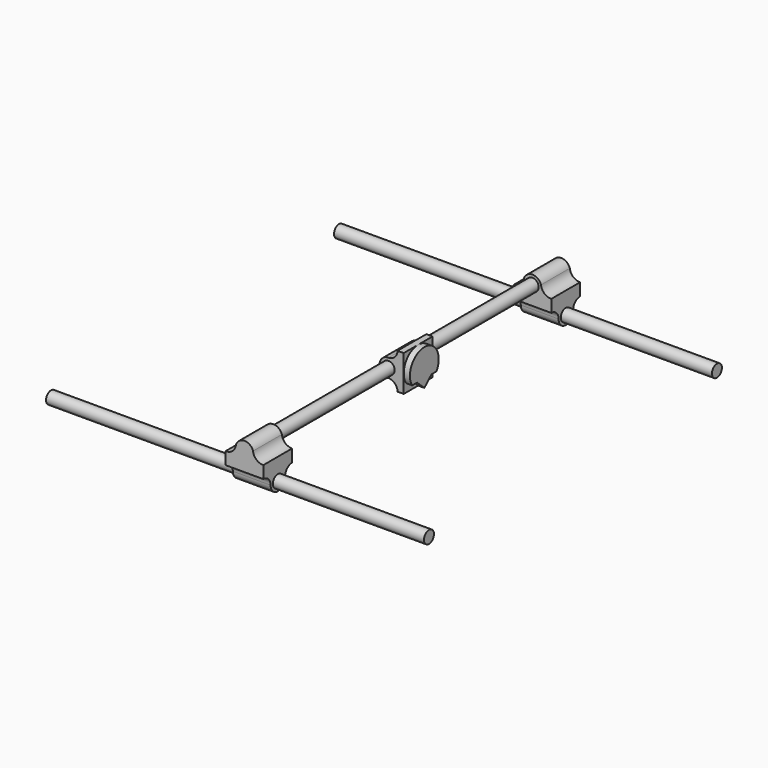
from build123d import *

# Parameters (mm, degrees)
SKETCH_R     = 6.9
PAD_DEPTH    = 210
SKETCH013_R  = 6.9
PAD003_DEPTH = 210
SKETCH017_R  = 6.9
PAD007_DEPTH = 20
PAD008_DEPTH = 6.9
SKETCH011_R  = 6.9
PAD001_DEPTH = 42
SKETCH012_R  = 6.9
PAD002_DEPTH = 42
SKETCH014_R  = 6.9
PAD004_DEPTH = 20
SKETCH015_R  = 6.9
PAD005_DEPTH = 20
SKETCH016_R  = 6.9
PAD006_DEPTH = 440


with BuildPart() as x_axis_rail1:
    # Sketch → Pad (new body, symmetric)
    with BuildSketch(Plane.YZ):
        Circle(SKETCH_R)
    extrude(amount=PAD_DEPTH, both=True)


with BuildPart() as x_axis_rail2:
    # Sketch013 → Pad003 (new body, symmetric)
    with BuildSketch(Plane(origin=(0, 400, 0), x_dir=(0, 1, 0), z_dir=(1, 0, 0))):
        Circle(SKETCH013_R)
    extrude(amount=PAD003_DEPTH, both=True)


with BuildPart() as y_axis_sled:
    # Sketch017 → Pad007 (new body, symmetric)
    with BuildSketch(Plane.XZ.offset(-200)):
        with BuildLine():
            ThreePointArc((21, 40.7), (11, 30.7), (21, 20.7))
            ThreePointArc((31, 10.7), (28.071068, 17.771068), (21, 20.7))
            Line((37.9, 10.7), (31, 10.7))
            Line((37.9, 50.7), (37.9, 10.7))
            Line((31, 50.7), (37.9, 50.7))
            ThreePointArc((21, 40.7), (28.071068, 43.628932), (31, 50.7))
        make_face()
        with Locations((21, 30.7)):
            Circle(SKETCH017_R, mode=Mode.SUBTRACT)
    extrude(amount=PAD007_DEPTH, both=True)


with BuildPart() as a_axis:
    # Sketch018 → Pad008 (new body)
    with BuildSketch(Plane.YZ.offset(37.9)):
        with BuildLine():
            ThreePointArc((216.953369, 20.01), (200.05, 50.7), (183.146631, 20.01))
            Line((183.146631, 20.01), (190.05, 20.01))
            Line((190.05, 20.01), (200.05, 10.7))
            Line((210.05, 20.01), (200.05, 10.7))
            Line((216.953369, 20.01), (210.05, 20.01))
        make_face()
    extrude(amount=PAD008_DEPTH)


with BuildPart() as x_axis_sled1:
    # Sketch011 → Pad001 (new body)
    with BuildSketch(Plane.YZ):
        with BuildLine():
            Line((-20, 16.9), (20, 16.9))
            Line((20, 16.9), (20, 10))
            ThreePointArc((20, 10), (12.928932, 7.071068), (10, 0))
            ThreePointArc((-10, 0), (0, -9.999999), (10, 0))
            ThreePointArc((-10, 0), (-12.928932, 7.071068), (-20, 10))
            Line((-20, 10), (-20, 16.9))
        make_face()
        Circle(SKETCH011_R, mode=Mode.SUBTRACT)
    extrude(amount=PAD001_DEPTH)


with BuildPart() as x_axis_sled2:
    # Sketch012 → Pad002 (new body)
    with BuildSketch(Plane(origin=(0, 400, 0), x_dir=(0, 1, 0), z_dir=(1, 0, 0))):
        with BuildLine():
            Line((-20, 16.9), (20, 16.9))
            Line((20, 16.9), (20, 10))
            ThreePointArc((20, 10), (12.928932, 7.071068), (10, 0))
            ThreePointArc((-10, 0), (0, -9.999999), (10, 0))
            ThreePointArc((-10, 0), (-12.928932, 7.071068), (-20, 10))
            Line((-20, 10), (-20, 16.9))
        make_face()
        Circle(SKETCH012_R, mode=Mode.SUBTRACT)
    extrude(amount=PAD002_DEPTH)


with BuildPart() as y_axis_socket1:
    # Sketch014 → Pad004 (new body, symmetric)
    with BuildSketch(Plane.XZ):
        with BuildLine():
            Line((0, 23.8), (0, 16.9))
            Line((0, 16.9), (42, 16.9))
            Line((42, 16.9), (42, 23.8))
            ThreePointArc((30.507366, 33.8), (34.242407, 26.488514), (42, 23.8))
            ThreePointArc((30.507366, 33.8), (21, 40.7), (11.492634, 33.8))
            ThreePointArc((0, 23.8), (7.757593, 26.488514), (11.492634, 33.8))
        make_face()
        with Locations((21, 30.7)):
            Circle(SKETCH014_R, mode=Mode.SUBTRACT)
    extrude(amount=PAD004_DEPTH, both=True)


with BuildPart() as y_axis_socket2:
    # Sketch015 → Pad005 (new body, symmetric)
    with BuildSketch(Plane.XZ.offset(-400)):
        with BuildLine():
            Line((0, 23.8), (0, 16.9))
            Line((0, 16.9), (42, 16.9))
            Line((42, 16.9), (42, 23.8))
            ThreePointArc((30.507366, 33.8), (34.242407, 26.488514), (42, 23.8))
            ThreePointArc((30.507366, 33.8), (21, 40.7), (11.492634, 33.8))
            ThreePointArc((0, 23.8), (7.757593, 26.488514), (11.492634, 33.8))
        make_face()
        with Locations((21, 30.7)):
            Circle(SKETCH015_R, mode=Mode.SUBTRACT)
    extrude(amount=PAD005_DEPTH, both=True)


with BuildPart() as y_rail:
    # Sketch016 → Pad006 (new body)
    with BuildSketch(Plane.XZ.offset(20)):
        with Locations((21, 30.7)):
            Circle(SKETCH016_R)
    extrude(amount=-PAD006_DEPTH)

    # Fusion: union X_Axis_Sled1, X_Axis_Sled2, Y_Axis_Socket1, Y_Axis_Socket2
    add(x_axis_sled1.part)
    add(x_axis_sled2.part)
    add(y_axis_socket1.part)
    add(y_axis_socket2.part)


solid = Compound([x_axis_rail1.part, x_axis_rail2.part, y_axis_sled.part, a_axis.part, y_rail.part])
